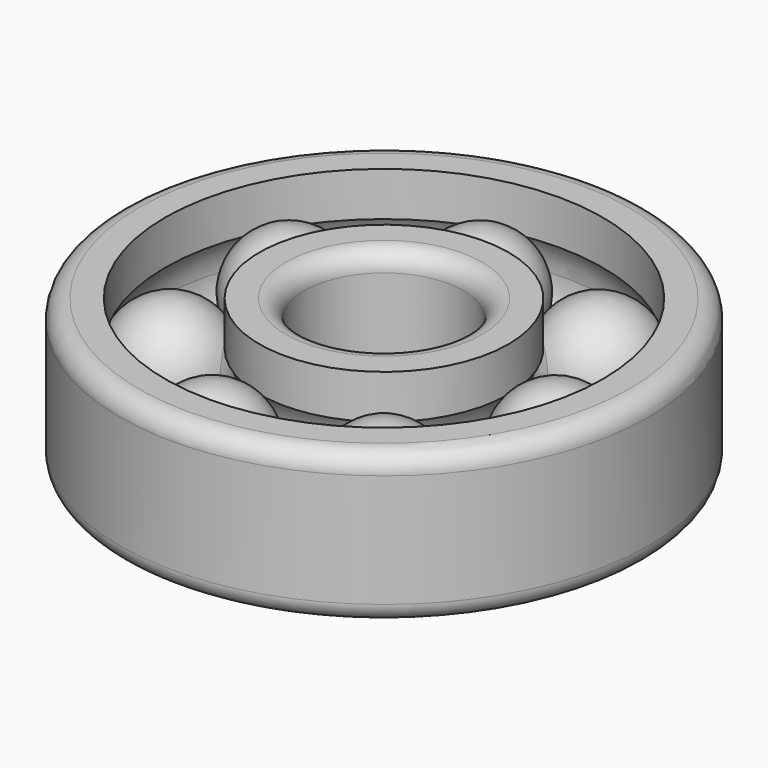
from build123d import *

# Parameters (mm, degrees)
F3_R     = 5
F3_2_R   = 5
F4_COUNT = 7


with BuildPart() as f1:
    # F0 (on Front) → F1 (revolve)
    with BuildSketch(Plane.XZ):
        with BuildLine():
            Line((33, 20), (21, 20))
            Line((21, 20), (21, 0))
            Line((21, 0), (30.5, 0))
            ThreePointArc((30.5, 0), (31.1385933837, 4.3301270189), (33, 8.2915619759))
            Line((33, 8.2915619759), (33, 20))
        make_face()
        with BuildLine():
            Line((30.5, 0), (21, 0))
            Line((21, 0), (21, -20))
            Line((21, -20), (33, -20))
            Line((33, -20), (33, -8.2915619759))
            ThreePointArc((33, -8.2915619759), (31.1385933837, -4.3301270189), (30.5, 0))
        make_face()
    revolve(axis=Axis((0, 0, -1.686452888), (0, 0, -1)))

    # F3
    f3_edges = [f1.edges().sort_by_distance(p)[0] for p in [
        (-21, 0, 20),
        (-21, 0, -20),
    ]]
    fillet(f3_edges, radius=F3_R)


with BuildPart() as f1b:
    # F0 (on Front) → F1, piece 2 (revolve)
    with BuildSketch(Plane.XZ):
        with BuildLine():
            Line((58, 20), (58, 8.2915619759))
            ThreePointArc((58, 8.2915619759), (59.8614066163, 4.3301270189), (60.5, 0))
            Line((60.5, 0), (70, 0))
            Line((70, 0), (70, 20))
            Line((70, 20), (58, 20))
        make_face()
        with BuildLine():
            Line((70, 0), (60.5, 0))
            ThreePointArc((60.5, 0), (59.8614066163, -4.3301270189), (58, -8.2915619759))
            Line((58, -8.2915619759), (58, -20))
            Line((58, -20), (70, -20))
            Line((70, -20), (70, 0))
        make_face()
    revolve(axis=Axis((0, 0, -1.686452888), (0, 0, -1)))

    # F3#2
    f3_2_edges = [f1b.edges().sort_by_distance(p)[0] for p in [
        (-70, 0, 20),
        (-70, 0, -20),
    ]]
    fillet(f3_2_edges, radius=F3_2_R)


with BuildPart() as f2:
    # F0 (on Front) → F2 (revolve)
    with BuildSketch(Plane.XZ):
        with BuildLine():
            ThreePointArc((58, 8.2915619759), (45.5, 15), (33, 8.2915619759))
            Line((33, 8.2915619759), (33, 0))
            Line((33, 0), (58, 0))
            Line((58, 0), (58, 8.2915619759))
        make_face()
        with BuildLine():
            Line((33, 0), (33, 8.2915619759))
            ThreePointArc((33, 8.2915619759), (31.1385933837, 4.3301270189), (30.5, 0))
            Line((30.5, 0), (33, 0))
        make_face()
        with BuildLine():
            ThreePointArc((60.5, 0), (59.8614066163, 4.3301270189), (58, 8.2915619759))
            Line((58, 8.2915619759), (58, 0))
            Line((58, 0), (60.5, 0))
        make_face()
    revolve(axis=Axis((37.0243787766, 0, 0), (1, 0, 0)))


with BuildPart() as f4_1:
    # F4: instance of F2
    add(f2.part.rotate(Axis((0, 0, 20), (0, 0, -1)), 1 * 360 / F4_COUNT))


with BuildPart() as f4_2:
    # F4: instance of F2
    add(f2.part.rotate(Axis((0, 0, 20), (0, 0, -1)), 2 * 360 / F4_COUNT))


with BuildPart() as f4_3:
    # F4: instance of F2
    add(f2.part.rotate(Axis((0, 0, 20), (0, 0, -1)), 3 * 360 / F4_COUNT))


with BuildPart() as f4_4:
    # F4: instance of F2
    add(f2.part.rotate(Axis((0, 0, 20), (0, 0, -1)), 4 * 360 / F4_COUNT))


with BuildPart() as f4_5:
    # F4: instance of F2
    add(f2.part.rotate(Axis((0, 0, 20), (0, 0, -1)), 5 * 360 / F4_COUNT))


with BuildPart() as f4_6:
    # F4: instance of F2
    add(f2.part.rotate(Axis((0, 0, 20), (0, 0, -1)), 6 * 360 / F4_COUNT))


solid = Compound([f1.part, f1b.part, f2.part, f4_1.part, f4_2.part, f4_3.part, f4_4.part, f4_5.part, f4_6.part])
